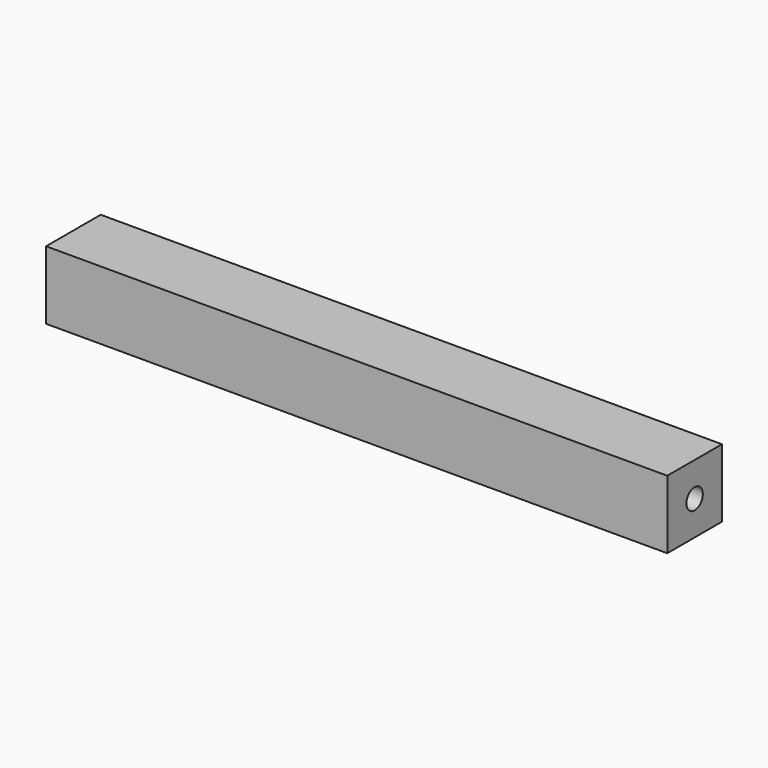
from build123d import *

# Parameters (mm, degrees)
SKETCH010_W     = 91
SKETCH010_H     = 10
PAD004_DEPTH    = 10
SKETCH011_R     = 1.5
POCKET006_DEPTH = 5
SKETCH012_R     = 1.5
POCKET007_DEPTH = 5


with BuildPart() as part:
    # Sketch010 → Pad004 (new body)
    with BuildSketch(Plane.XY):
        Rectangle(SKETCH010_W, SKETCH010_H)
    extrude(amount=PAD004_DEPTH)

    # Sketch011 (on Face1 of Pad004) → Pocket006 (cut)
    with BuildSketch(Plane(origin=(-45.5, 0, 0), x_dir=(0, -1, 0), z_dir=(-1, 0, 0))):
        with Locations((0, 5)):
            Circle(SKETCH011_R)
    extrude(amount=-POCKET006_DEPTH, mode=Mode.SUBTRACT)

    # Sketch012 (on Face7 of Pocket006) → Pocket007 (cut)
    with BuildSketch(Plane.YZ.offset(45.5)):
        with Locations((0, 5)):
            Circle(SKETCH012_R)
    extrude(amount=-POCKET007_DEPTH, mode=Mode.SUBTRACT)


solid = part.part
